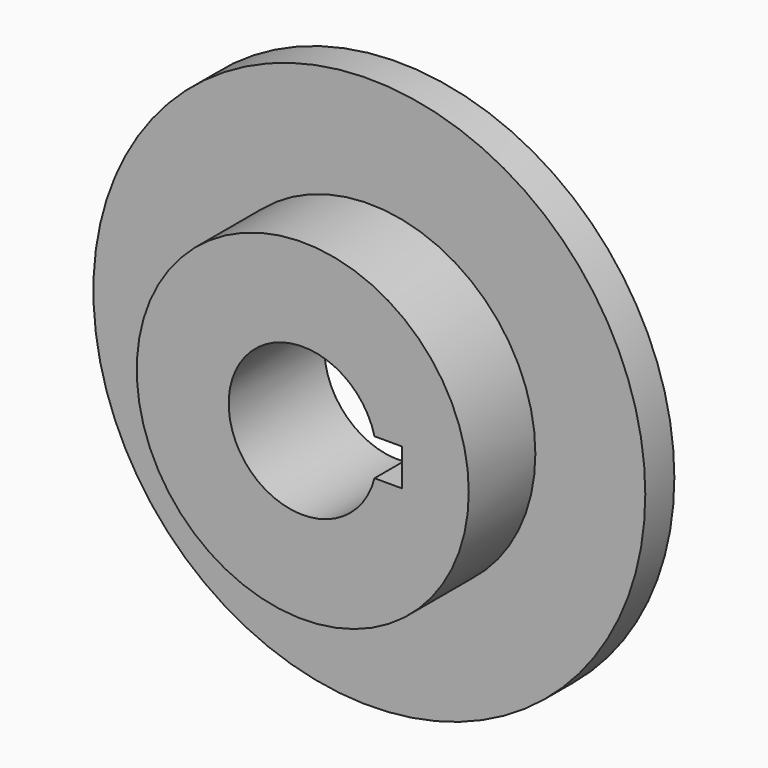
from build123d import *

# Parameters (mm, degrees)
F0_R     = 23.749
F1_DEPTH = 3.1242
F2_R     = 14.2875
F3_DEPTH = 7.1628


with BuildPart() as f1:
    # F0 (on Front) → F1 (new body)
    with BuildSketch(Plane.XZ):
        Circle(F0_R)
        with BuildLine():
            ThreePointArc((6.174591, -1.5875), (-6.3754, 0), (6.174591, 1.5875))
            Line((6.174591, 1.5875), (8.555841, 1.5875))
            Line((8.555841, 1.5875), (8.555841, -1.5875))
            Line((8.555841, -1.5875), (6.174591, -1.5875))
        make_face(mode=Mode.SUBTRACT)
    extrude(amount=F1_DEPTH)

    # F2 (on face) → F3 (join)
    with BuildSketch(Plane.XZ.offset(3.1242)):
        Circle(F2_R)
        with BuildLine():
            ThreePointArc((6.174591, -1.5875), (-6.3754, 0), (6.174591, 1.5875))
            Line((6.174591, 1.5875), (8.555841, 1.5875))
            Line((8.555841, 1.5875), (8.555841, -1.5875))
            Line((8.555841, -1.5875), (6.174591, -1.5875))
        make_face(mode=Mode.SUBTRACT)
    extrude(amount=F3_DEPTH)


solid = f1.part
